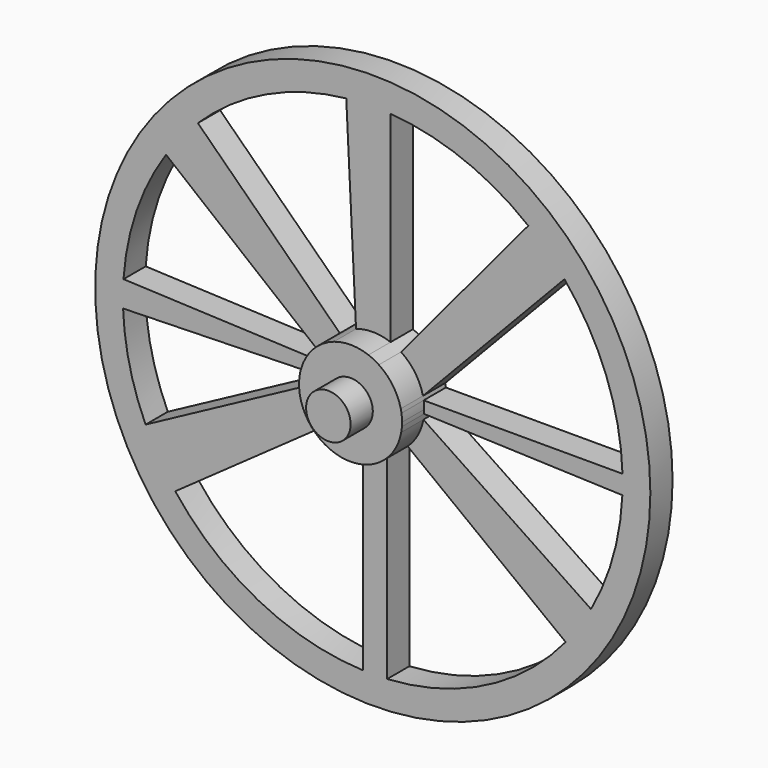
from build123d import *

# Parameters (mm, degrees)
F0_R     = 63.5
F1_DEPTH = 6.35
F0_R_2   = 5.092997
F2_DEPTH = 12.7
F3_DEPTH = 19.05


with BuildPart() as f1:
    # F0 (on Front) → F1 (new body)
    with BuildSketch(Plane.XZ):
        Circle(F0_R)
        with BuildLine():
            ThreePointArc((57.122257, 1.780511), (57.143064, 0.890363), (57.15, 0))
            ThreePointArc((57.15, 0), (57.135905, -1.269183), (57.093628, -2.537739))
            ThreePointArc((57.093628, -2.537739), (54.98137, -15.593956), (49.924429, -27.814994))
            ThreePointArc((49.924429, -27.814994), (47.213271, -32.202943), (44.117535, -36.328579))
            ThreePointArc((44.117535, -36.328579), (25.871512, -50.958683), (3.292949, -57.055052))
            ThreePointArc((3.292949, -57.055052), (0.552387, -57.14733), (-2.189447, -57.108045))
            ThreePointArc((-2.189447, -57.108045), (-26.134958, -50.824074), (-45.176341, -35.003153))
            ThreePointArc((-45.176341, -35.003153), (-48.893175, -29.5902), (-51.964588, -23.786636))
            ThreePointArc((-51.964588, -23.786636), (-55.608023, -13.185989), (-57.112206, -2.078074))
            ThreePointArc((-57.112206, -2.078074), (-57.143101, 0.887966), (-57.020063, 3.851614))
            ThreePointArc((-57.020063, 3.851614), (-54.031986, 18.618995), (-47.288543, 32.092307))
            ThreePointArc((-47.288543, 32.092307), (-43.8631, 36.635378), (-40.002895, 40.815327))
            ThreePointArc((-40.002895, 40.815327), (-24.384219, 51.686868), (-6.061928, 56.827595))
            ThreePointArc((-6.061928, 56.827595), (-0.991719, 57.141395), (4.086326, 57.003723))
            ThreePointArc((4.086326, 57.003723), (20.760172, 53.246012), (35.57713, 44.725723))
            ThreePointArc((35.57713, 44.725723), (39.918168, 40.898195), (43.84984, 36.651249))
            ThreePointArc((43.84984, 36.651249), (53.41192, 20.329518), (57.122257, 1.780511))
        make_face(mode=Mode.SUBTRACT)
        with BuildLine():
            Line((-7.523903, 9.061736), (-40.002895, 40.815327))
            ThreePointArc((-40.002895, 40.815327), (-43.8631, 36.635378), (-47.288543, 32.092307))
            Line((-47.288543, 32.092307), (-11.370419, 3.072091))
            ThreePointArc((-11.370419, 3.072091), (-9.91049, 6.364461), (-7.523903, 9.061736))
        make_face()
        with BuildLine():
            Line((-11.615889, 1.948155), (-57.020063, 3.851614))
            ThreePointArc((-57.020063, 3.851614), (-57.143101, 0.887966), (-57.112206, -2.078074))
            Line((-57.112206, -2.078074), (-11.741675, -0.925877))
            ThreePointArc((-11.741675, -0.925877), (-11.766858, 0.514994), (-11.615889, 1.948155))
        make_face()
        with BuildLine():
            ThreePointArc((-51.964588, -23.786636), (-48.893175, -29.5902), (-45.176341, -35.003153))
            Line((-45.176341, -35.003153), (-7.989839, -8.653707))
            ThreePointArc((-7.989839, -8.653707), (-10.319767, -5.676847), (-11.586634, -2.115202))
            Line((-11.586634, -2.115202), (-51.964588, -23.786636))
        make_face()
        with BuildLine():
            ThreePointArc((44.117535, -36.328579), (47.213271, -32.202943), (49.924429, -27.814994))
            Line((49.924429, -27.814994), (11.586634, -2.115202))
            ThreePointArc((11.586634, -2.115202), (10.317636, -5.680719), (7.983341, -8.659702))
            Line((7.983341, -8.659702), (44.117535, -36.328579))
        make_face()
        with BuildLine():
            Line((11.481925, 2.6248), (43.84984, 36.651249))
            ThreePointArc((43.84984, 36.651249), (39.918168, 40.898195), (35.57713, 44.725723))
            Line((35.57713, 44.725723), (6.470598, 9.841521))
            ThreePointArc((6.470598, 9.841521), (9.674375, 6.717935), (11.481925, 2.6248))
        make_face()
        with BuildLine():
            Line((4.086326, 11.046543), (4.086326, 57.003723))
            ThreePointArc((4.086326, 57.003723), (-0.991719, 57.141395), (-6.061928, 56.827595))
            Line((-6.061928, 56.827595), (-3.825, 11.139728))
            ThreePointArc((-3.825, 11.139728), (0.138722, 11.777306), (4.086326, 11.046543))
        make_face()
        with BuildLine():
            ThreePointArc((57.093628, -2.537739), (57.135905, -1.269183), (57.15, 0))
            ThreePointArc((57.15, 0), (57.143064, 0.890363), (57.122257, 1.780511))
            Line((57.122257, 1.780511), (11.642764, 1.780511))
            ThreePointArc((11.642764, 1.780511), (11.744234, 0.892824), (11.778123, 0))
            ThreePointArc((11.778123, 0), (11.769223, -0.457783), (11.742537, -0.914875))
            Line((11.742537, -0.914875), (57.093628, -2.537739))
        make_face()
        with BuildLine():
            ThreePointArc((-2.189447, -57.108045), (0.552387, -57.14733), (3.292949, -57.055052))
            Line((3.292949, -57.055052), (3.292949, -11.308433))
            ThreePointArc((3.292949, -11.308433), (0.567368, -11.764449), (-2.189447, -11.572835))
            Line((-2.189447, -11.572835), (-2.189447, -57.108045))
        make_face()
    extrude(amount=F1_DEPTH)

    # F0 (on Front) → F2 (join)
    with BuildSketch(Plane.XZ):
        with BuildLine():
            ThreePointArc((11.778123, 0), (11.744234, 0.892824), (11.642764, 1.780511))
            ThreePointArc((11.642764, 1.780511), (11.570048, 2.204123), (11.481925, 2.6248))
            ThreePointArc((11.481925, 2.6248), (9.674375, 6.717935), (6.470598, 9.841521))
            ThreePointArc((6.470598, 9.841521), (5.312737, 10.51185), (4.086326, 11.046543))
            ThreePointArc((4.086326, 11.046543), (0.138722, 11.777306), (-3.825, 11.139728))
            ThreePointArc((-3.825, 11.139728), (-5.768788, 10.268654), (-7.523903, 9.061736))
            ThreePointArc((-7.523903, 9.061736), (-9.91049, 6.364461), (-11.370419, 3.072091))
            ThreePointArc((-11.370419, 3.072091), (-11.506885, 2.513122), (-11.615889, 1.948155))
            ThreePointArc((-11.615889, 1.948155), (-11.766858, 0.514994), (-11.741675, -0.925877))
            ThreePointArc((-11.741675, -0.925877), (-11.679303, -1.522514), (-11.586634, -2.115202))
            ThreePointArc((-11.586634, -2.115202), (-10.319767, -5.676847), (-7.989839, -8.653707))
            ThreePointArc((-7.989839, -8.653707), (-5.294789, -10.520902), (-2.189447, -11.572835))
            ThreePointArc((-2.189447, -11.572835), (0.567368, -11.764449), (3.292949, -11.308433))
            ThreePointArc((3.292949, -11.308433), (5.7916, -10.255806), (7.983341, -8.659702))
            ThreePointArc((7.983341, -8.659702), (10.317636, -5.680719), (11.586634, -2.115202))
            ThreePointArc((11.586634, -2.115202), (11.680015, -1.517042), (11.742537, -0.914875))
            ThreePointArc((11.742537, -0.914875), (11.769223, -0.457783), (11.778123, 0))
        make_face()
        Circle(F0_R_2, mode=Mode.SUBTRACT)
    extrude(amount=F2_DEPTH)

    # F0 (on Front) → F3 (join)
    with BuildSketch(Plane.XZ):
        Circle(F0_R_2)
    extrude(amount=F3_DEPTH)


solid = f1.part
